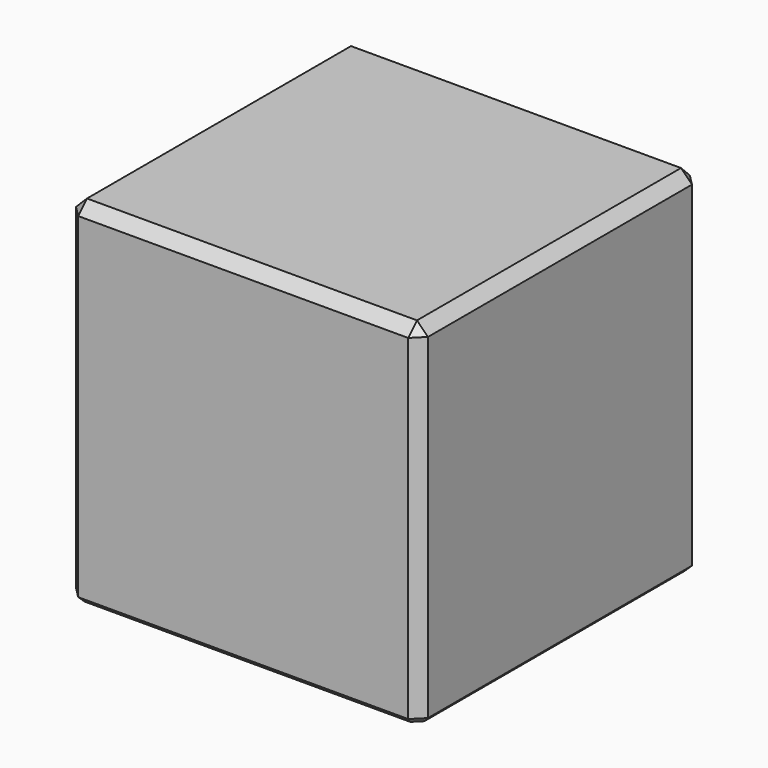
from build123d import *

# Parameters (mm, degrees)
F0_W     = 19.2
F0_H     = 19.2
F1_DEPTH = 19.2
F2_W     = 15.3
F2_H     = 15.3
F3_DEPTH = 16.4
F4_SIZE  = 0.6
F5_R     = 0.6
F6_SIZE  = 0.3


with BuildPart() as f1:
    # F0 (on Top) → F1 (new body)
    with BuildSketch(Plane.XY):
        Rectangle(F0_W, F0_H)
    extrude(amount=F1_DEPTH)

    # F2 (on face) → F3 (cut)
    with BuildSketch(Plane(origin=(0, 0, 0), x_dir=(1, 0, 0), z_dir=(0, 0, -1))):
        Rectangle(F2_W, F2_H)
    extrude(amount=-F3_DEPTH, mode=Mode.SUBTRACT)

    # F4
    f4_edges = [f1.edges().sort_by_distance(p)[0] for p in [
        (-9.6, -9.6, 9.6),
        (-9.6, 9.6, 9.6),
        (9.6, 9.6, 9.6),
        (9.6, -9.6, 9.6),
        (0, -9.6, 19.2),
        (9.6, 0, 19.2),
        (0, 9.6, 19.2),
        (-9.6, 0, 19.2),
    ]]
    chamfer(f4_edges, length=F4_SIZE)

    # F5
    f5_edges = [f1.edges().sort_by_distance(p)[0] for p in [
        (-7.65, 7.65, 8.2),
        (-7.65, -7.65, 8.2),
        (7.65, -7.65, 8.2),
        (7.65, 7.65, 8.2),
        (7.65, 0, 16.4),
        (0, -7.65, 16.4),
        (-7.65, 0, 16.4),
        (0, 7.65, 16.4),
    ]]
    fillet(f5_edges, radius=F5_R)

    # F6
    f6_edges = [f1.edges().sort_by_distance(p)[0] for p in [
        (0, 7.65, 0),
        (-7.474264, 7.474264, 0),
        (7.474264, 7.474264, 0),
        (-7.65, 0, 0),
        (7.65, 0, 0),
        (-7.474264, -7.474264, 0),
        (7.474264, -7.474264, 0),
        (0, -7.65, 0),
        (0, -9.6, 0),
        (-9.3, -9.3, 0),
        (9.3, -9.3, 0),
        (-9.6, 0, 0),
        (9.6, 0, 0),
        (-9.3, 9.3, 0),
        (9.3, 9.3, 0),
        (0, 9.6, 0),
    ]]
    chamfer(f6_edges, length=F6_SIZE)


solid = f1.part
